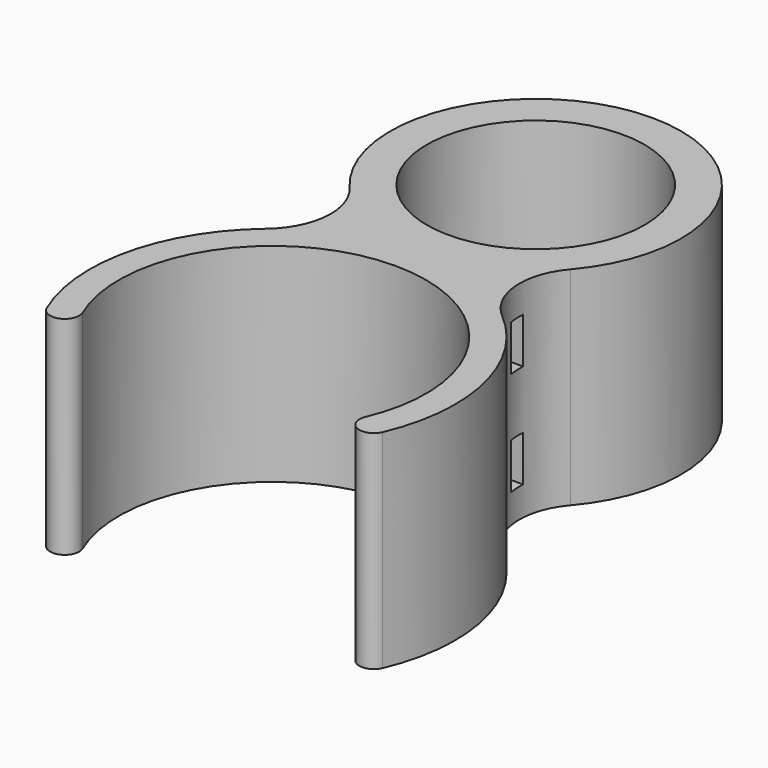
from build123d import *

# Parameters (mm, degrees)
SKETCH_R          = 13.1
PAD_DEPTH         = 25
SKETCH001_W       = 2
SKETCH001_H       = 5.5
POCKET_DEPTH      = 22.001
POCKET_DEPTH_BACK = 22.001


with BuildPart() as part:
    # Sketch → Pad (new body)
    with BuildSketch(Plane.XY):
        with BuildLine():
            ThreePointArc((17, -25.79726), (0, 0), (-17, -25.79726))
            ThreePointArc((-20.216216, -27.177822), (-17.917827, -28.095649), (-17, -25.79726))
            ThreePointArc((-14.206112, -1.701596), (-21.412232, -13.448634), (-20.216216, -27.177822))
            ThreePointArc((-14.206112, -1.701596), (-11.372558, 3.815069), (-13.288911, 9.713392))
            ThreePointArc((13.288911, 9.713392), (0, 38.6), (-13.288911, 9.713392))
            ThreePointArc((13.288911, 9.713392), (11.372558, 3.815069), (14.206112, -1.701596))
            ThreePointArc((20.216216, -27.177822), (21.412232, -13.448634), (14.206112, -1.701596))
            ThreePointArc((17, -25.79726), (17.917827, -28.095649), (20.216216, -27.177822))
        make_face()
        with Locations((0, 21.1)):
            Circle(SKETCH_R, mode=Mode.SUBTRACT)
    extrude(amount=PAD_DEPTH)

    # Sketch001 → Pocket (cut, two sides)
    with BuildSketch(Plane.YZ) as pocket_sk:
        with Locations((4, 6.25)):
            Rectangle(SKETCH001_W, SKETCH001_H)
        with Locations((4, 18.75)):
            Rectangle(SKETCH001_W, SKETCH001_H)
    extrude(amount=-POCKET_DEPTH, mode=Mode.SUBTRACT)
    extrude(pocket_sk.sketch, amount=POCKET_DEPTH_BACK, mode=Mode.SUBTRACT)


solid = part.part
